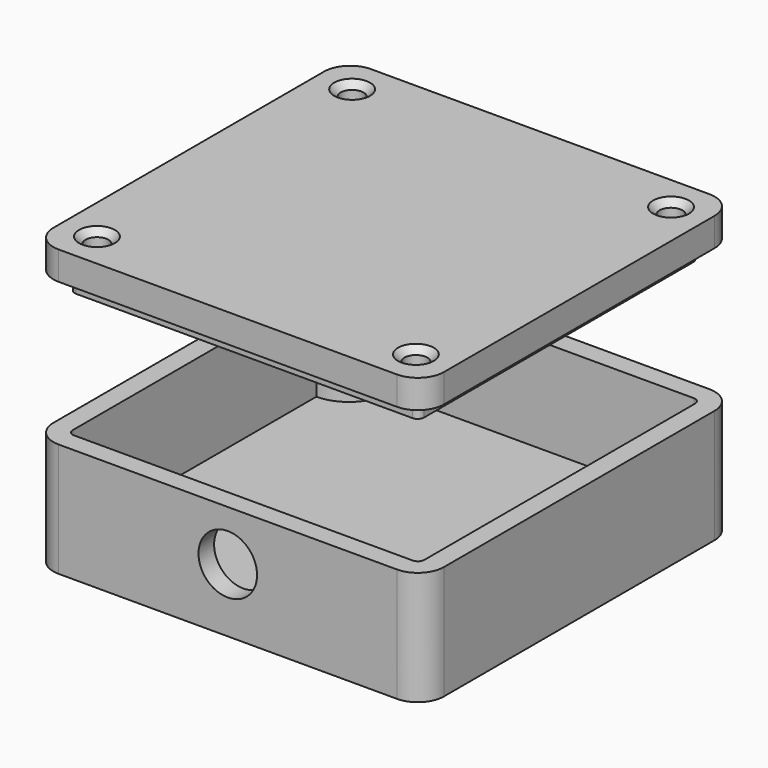
from build123d import *

# Parameters (mm, degrees)
PAD_DEPTH                     = 35
POCKET_DEPTH                  = 29
SKETCH002_R                   = 2.5
PAD001_DEPTH                  = 23
SKETCH002_MIRRORED_2_R        = 2.5
PAD001_MIRRORED_2_DEPTH       = 23
SKETCH008_R                   = 9
HOLE002_DEPTH                 = 18
HOLE002_TIPS_R                = 9
PAD002_DEPTH                  = 8.75
PAD003_DEPTH                  = 5.7
SKETCH007_R                   = 3.5
POCKET001_DEPTH               = 378.390413
SKETCH007_MIRRORED002_2_R     = 3.5
POCKET001_MIRRORED002_2_DEPTH = 378.390413
CHAMFER_SIZE                  = 2


with BuildPart() as box:
    # Sketch → Pad (new body)
    with BuildSketch(Plane.XY):
        with BuildLine():
            Line((-52, 60), (52, 60))
            ThreePointArc((60, 52), (57.656854, 57.656854), (52, 60))
            Line((60, 52), (60, -52))
            ThreePointArc((52, -60), (57.656854, -57.656854), (60, -52))
            Line((52, -60), (-52, -60))
            ThreePointArc((-60, -52), (-57.656854, -57.656854), (-52, -60))
            Line((-60, -52), (-60, 52))
            ThreePointArc((-52, 60), (-57.656854, 57.656854), (-60, 52))
        make_face()
    extrude(amount=PAD_DEPTH)

    # Sketch001 → Pocket (cut)
    with BuildSketch(Plane.XY.offset(35)):
        with BuildLine():
            Line((-52, 54), (52, 54))
            ThreePointArc((54, 52), (53.414214, 53.414214), (52, 54))
            Line((54, 52), (54, -52))
            ThreePointArc((52, -54), (53.414214, -53.414214), (54, -52))
            Line((52, -54), (-52, -54))
            ThreePointArc((-54, -52), (-53.414214, -53.414214), (-52, -54))
            Line((-54, -52), (-54, 52))
            ThreePointArc((-52, 54), (-53.414214, 53.414214), (-54, 52))
        make_face()
    extrude(amount=-POCKET_DEPTH, mode=Mode.SUBTRACT)

    # Sketch002 → Pad001 (join)
    with BuildSketch(Plane.XY):
        with BuildLine():
            Line((-54, 54), (-41.5, 54))
            ThreePointArc((-54, 41.5), (-45.161165, 45.161165), (-41.5, 54))
            Line((-54, 54), (-54, 41.5))
        make_face()
        with Locations((-49, 49)):
            Circle(SKETCH002_R, mode=Mode.SUBTRACT)
    pad001 = extrude(amount=PAD001_DEPTH)

    # Sketch002 Mirrored 2 → Pad001 Mirrored 2 (add)
    with BuildSketch(Plane(origin=(0, 0, 0), x_dir=(-1, 0, 0), z_dir=(0, 0, -1))):
        with BuildLine():
            Line((-54, 54), (-41.5, 54))
            ThreePointArc((-54, 41.5), (-45.161165, 45.161165), (-41.5, 54))
            Line((-54, 54), (-54, 41.5))
        make_face()
        with Locations((-49, 49)):
            Circle(SKETCH002_MIRRORED_2_R, mode=Mode.SUBTRACT)
    pad001_mirrored_2 = extrude(amount=-PAD001_MIRRORED_2_DEPTH)

    # Mirrored001: Pad001, Pad001 Mirrored 2 across Sketch002 H_Axis
    add(pad001.mirror(Plane.ZX))
    add(pad001_mirrored_2.mirror(Plane.ZX))

    # Sketch008 (on Face6 of MultiTransform) → Hole002 (cut)
    with BuildSketch(Plane.XZ.offset(60)):
        with Locations((0, 19.5)):
            Circle(SKETCH008_R)
    extrude(amount=-HOLE002_DEPTH, mode=Mode.SUBTRACT)

    # Hole002 tips → Hole002 tip 1 section 0
    with BuildSketch(Plane.XZ.offset(42), mode=Mode.PRIVATE) as hole002_tip_1_s0:
        with Locations((0, 19.5)):
            Circle(HOLE002_TIPS_R)
    loft([hole002_tip_1_s0.sketch, Vertex(0, -36.592254, 19.5)], mode=Mode.SUBTRACT)


with BuildPart() as lid:
    # Sketch005 → Pad002 (new body)
    with BuildSketch(Plane.XY.offset(29)):
        with BuildLine():
            Line((-52, 60), (52, 60))
            ThreePointArc((60, 52), (57.656854, 57.656854), (52, 60))
            Line((60, 52), (60, -52))
            ThreePointArc((52, -60), (57.656854, -57.656854), (60, -52))
            Line((52, -60), (-52, -60))
            ThreePointArc((-60, -52), (-57.656854, -57.656854), (-52, -60))
            Line((-60, -52), (-60, 52))
            ThreePointArc((-52, 60), (-57.656854, 57.656854), (-60, 52))
        make_face()
    extrude(amount=PAD002_DEPTH)

    # Sketch006 → Pad003 (join)
    with BuildSketch(Plane.XY.offset(29)):
        with BuildLine():
            Line((-51.7, 53.7), (51.7, 53.7))
            ThreePointArc((53.7, 51.7), (53.114214, 53.114214), (51.7, 53.7))
            Line((53.7, 51.7), (53.7, -51.7))
            ThreePointArc((51.7, -53.7), (53.114214, -53.114214), (53.7, -51.7))
            Line((51.7, -53.7), (-51.7, -53.7))
            ThreePointArc((-53.7, -51.7), (-53.114214, -53.114214), (-51.7, -53.7))
            Line((-53.7, -51.7), (-53.7, 51.7))
            ThreePointArc((-51.7, 53.7), (-53.114214, 53.114214), (-53.7, 51.7))
        make_face()
    extrude(amount=-PAD003_DEPTH)

    # Sketch007 → Pocket001 (cut, through all)
    with BuildSketch(Plane.XY):
        with Locations((-49, 49)):
            Circle(SKETCH007_R)
    pocket001 = extrude(amount=POCKET001_DEPTH, mode=Mode.SUBTRACT)

    # Sketch007 Mirrored002 2 → Pocket001 Mirrored002 2 (cut, through all)
    with BuildSketch(Plane(origin=(0, 0, 0), x_dir=(-1, 0, 0), z_dir=(0, 0, -1))):
        with Locations((-49, 49)):
            Circle(SKETCH007_MIRRORED002_2_R)
    pocket001_mirrored002_2 = extrude(amount=-POCKET001_MIRRORED002_2_DEPTH, mode=Mode.SUBTRACT)

    # Mirrored003: Pocket001, Pocket001 Mirrored002 2 across Sketch007 H_Axis
    add(pocket001.mirror(Plane.ZX), mode=Mode.SUBTRACT)
    add(pocket001_mirrored002_2.mirror(Plane.ZX), mode=Mode.SUBTRACT)

    # Chamfer
    chamfer_edges = [lid.edges().sort_by_distance(p)[0] for p in [
        (-52.5, 49, 37.75),
        (-52.5, -49, 37.75),
        (52.5, -49, 37.75),
        (52.5, 49, 37.75),
    ]]
    chamfer(chamfer_edges, length=CHAMFER_SIZE)


with BuildPart() as lid_1:
    # Body001 placement: moved
    add(lid.part.moved(Location((0, 0, 50))))


solid = Compound([box.part, lid_1.part])
